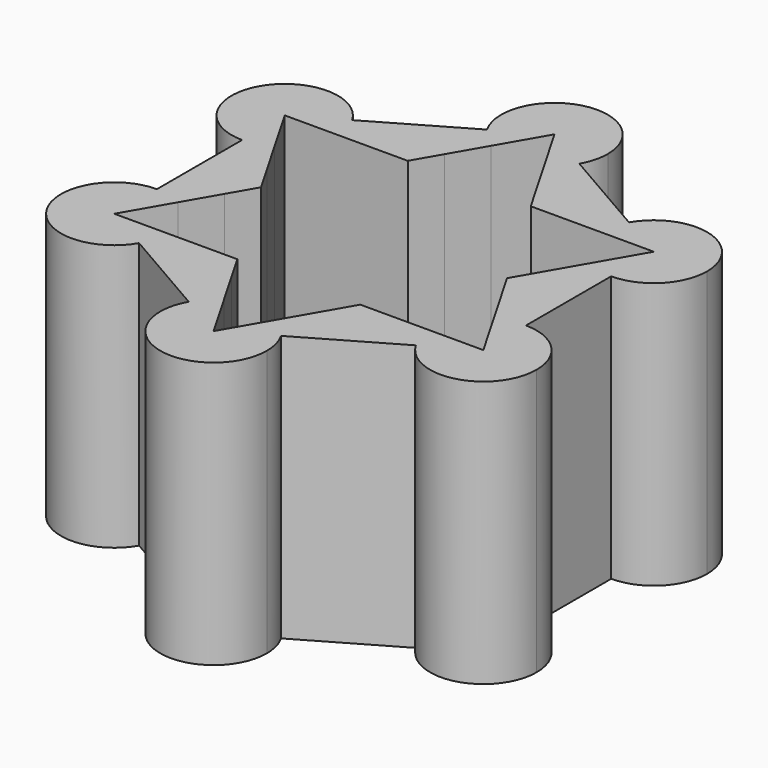
from build123d import *

# Parameters (mm, degrees)
F1_DEPTH = 25


with BuildPart() as f1:
    # F0 (on Top) → F1 (new body)
    with BuildSketch(Plane.XY):
        with BuildLine():
            Line((12.3205080757, 10), (17.3205080757, 10))
            Line((17.3205080757, 10), (12.9903810568, 12.5))
            ThreePointArc((12.9903810568, 12.5), (12.4908789442, 11.2940952255), (12.3205080757, 10))
        make_face()
        with BuildLine():
            Line((12.9903810568, 12.5), (17.3205080757, 10))
            Line((17.3205080757, 10), (17.3205080757, 5))
            ThreePointArc((17.3205080757, 5), (20.8560419816, 6.4644660941), (22.3205080757, 10))
            ThreePointArc((22.3205080757, 10), (18.6146033012, 14.8296291314), (12.9903810568, 12.5))
        make_face()
        with BuildLine():
            Line((17.3205080757, 5), (17.3205080757, 10))
            Line((17.3205080757, 10), (14.8205080757, 5.6698729811))
            ThreePointArc((14.8205080757, 5.6698729811), (16.0264128502, 5.1703708686), (17.3205080757, 5))
        make_face()
        with BuildLine():
            Line((14.8205080757, -5.6698729811), (17.3205080757, -10))
            Line((17.3205080757, -10), (17.3205080757, -5))
            ThreePointArc((17.3205080757, -5), (16.0264128502, -5.1703708686), (14.8205080757, -5.6698729811))
        make_face()
        with BuildLine():
            Line((17.3205080757, -5), (17.3205080757, -10))
            Line((17.3205080757, -10), (12.9903810568, -12.5))
            ThreePointArc((12.9903810568, -12.5), (18.6146033012, -14.8296291314), (22.3205080757, -10))
            ThreePointArc((22.3205080757, -10), (20.8560419816, -6.4644660941), (17.3205080757, -5))
        make_face()
        with BuildLine():
            Line((12.9903810568, -12.5), (17.3205080757, -10))
            Line((17.3205080757, -10), (12.3205080757, -10))
            ThreePointArc((12.3205080757, -10), (12.4908789442, -11.2940952255), (12.9903810568, -12.5))
        make_face()
        with BuildLine():
            Line((-2.5, 15.6698729811), (0, 20))
            Line((0, 20), (-4.3301270189, 17.5))
            ThreePointArc((-4.3301270189, 17.5), (-3.5355339059, 16.4644660941), (-2.5, 15.6698729811))
        make_face()
        with BuildLine():
            Line((-4.3301270189, 17.5), (0, 20))
            Line((0, 20), (4.3301270189, 17.5))
            ThreePointArc((4.3301270189, 17.5), (4.8296291314, 18.7059047745), (5, 20))
            ThreePointArc((5, 20), (-1.2940952255, 24.8296291314), (-4.3301270189, 17.5))
        make_face()
        with BuildLine():
            Line((4.3301270189, 17.5), (0, 20))
            Line((0, 20), (2.5, 15.6698729811))
            ThreePointArc((2.5, 15.6698729811), (3.5355339059, 16.4644660941), (4.3301270189, 17.5))
        make_face()
        with BuildLine():
            Line((11.5470053838, 0), (12.9903810958, -2.5000000676))
            Line((12.9903810958, -2.5000000676), (14.8205080757, -5.6698729811))
            ThreePointArc((14.8205080757, -5.6698729811), (16.0264128502, -5.1703708686), (17.3205080757, -5))
            Line((17.3205080757, -5), (17.3205080757, 5))
            ThreePointArc((17.3205080757, 5), (16.0264128502, 5.1703708686), (14.8205080757, 5.6698729811))
            Line((14.8205080757, 5.6698729811), (12.9903809359, 2.4999997907))
            Line((12.9903809359, 2.4999997907), (11.5470053838, 0))
        make_face()
        with BuildLine():
            Line((5.7735026919, 10), (8.6602540378, 10))
            Line((8.6602540378, 10), (12.3205080757, 10))
            ThreePointArc((12.3205080757, 10), (12.4908789442, 11.2940952255), (12.9903810568, 12.5))
            Line((12.9903810568, 12.5), (4.3301270189, 17.5))
            ThreePointArc((4.3301270189, 17.5), (3.5355339059, 16.4644660941), (2.5, 15.6698729811))
            Line((2.5, 15.6698729811), (4.3301270274, 12.4999999853))
            Line((4.3301270274, 12.4999999853), (5.7735026919, 10))
        make_face()
        with BuildLine():
            Line((2.5, -15.6698729811), (0, -20))
            Line((0, -20), (4.3301270189, -17.5))
            ThreePointArc((4.3301270189, -17.5), (3.5355339059, -16.4644660941), (2.5, -15.6698729811))
        make_face()
        with BuildLine():
            Line((4.3301270189, -17.5), (0, -20))
            Line((0, -20), (-4.3301270189, -17.5))
            ThreePointArc((-4.3301270189, -17.5), (-1.2940952255, -24.8296291314), (5, -20))
            ThreePointArc((5, -20), (4.8296291314, -18.7059047745), (4.3301270189, -17.5))
        make_face()
        with BuildLine():
            Line((-4.3301270189, -17.5), (0, -20))
            Line((0, -20), (-2.5, -15.6698729811))
            ThreePointArc((-2.5, -15.6698729811), (-3.5355339059, -16.4644660941), (-4.3301270189, -17.5))
        make_face()
        with BuildLine():
            Line((12.3205080757, -10), (8.6602540378, -10))
            Line((8.6602540378, -10), (5.7735026919, -10))
            Line((5.7735026919, -10), (4.3301270579, -12.4999999324))
            Line((4.3301270579, -12.4999999324), (2.5, -15.6698729811))
            ThreePointArc((2.5, -15.6698729811), (3.5355339059, -16.4644660941), (4.3301270189, -17.5))
            Line((4.3301270189, -17.5), (12.9903810568, -12.5))
            ThreePointArc((12.9903810568, -12.5), (12.4908789442, -11.2940952255), (12.3205080757, -10))
        make_face()
        with BuildLine():
            Line((-17.3205080757, 5), (-17.3205080757, 10))
            Line((-17.3205080757, 10), (-12.9903810568, 12.5))
            ThreePointArc((-12.9903810568, 12.5), (-21.6506350946, 12.5), (-17.3205080757, 5))
        make_face()
        with BuildLine():
            Line((-14.8205080757, 5.6698729811), (-17.3205080757, 10))
            Line((-17.3205080757, 10), (-17.3205080757, 5))
            ThreePointArc((-17.3205080757, 5), (-16.0264128502, 5.1703708686), (-14.8205080757, 5.6698729811))
        make_face()
        with BuildLine():
            Line((-12.9903810568, 12.5), (-17.3205080757, 10))
            Line((-17.3205080757, 10), (-12.3205080757, 10))
            ThreePointArc((-12.3205080757, 10), (-12.4908789442, 11.2940952255), (-12.9903810568, 12.5))
        make_face()
        with BuildLine():
            Line((-5.7735026919, 10), (-4.3301269897, 12.5000000507))
            Line((-4.3301269897, 12.5000000507), (-2.5, 15.6698729811))
            ThreePointArc((-2.5, 15.6698729811), (-3.5355339059, 16.4644660941), (-4.3301270189, 17.5))
            Line((-4.3301270189, 17.5), (-12.9903810568, 12.5))
            ThreePointArc((-12.9903810568, 12.5), (-12.4908789442, 11.2940952255), (-12.3205080757, 10))
            Line((-12.3205080757, 10), (-8.6602540378, 10))
            Line((-8.6602540378, 10), (-5.7735026919, 10))
        make_face()
        with BuildLine():
            Line((-12.3205080757, -10), (-17.3205080757, -10))
            Line((-17.3205080757, -10), (-12.9903810568, -12.5))
            ThreePointArc((-12.9903810568, -12.5), (-12.4908789442, -11.2940952255), (-12.3205080757, -10))
        make_face()
        with BuildLine():
            Line((-12.9903810568, -12.5), (-17.3205080757, -10))
            Line((-17.3205080757, -10), (-17.3205080757, -5))
            ThreePointArc((-17.3205080757, -5), (-21.6506350946, -12.5), (-12.9903810568, -12.5))
        make_face()
        with BuildLine():
            Line((-17.3205080757, -5), (-17.3205080757, -10))
            Line((-17.3205080757, -10), (-14.8205080757, -5.6698729811))
            ThreePointArc((-14.8205080757, -5.6698729811), (-16.0264128502, -5.1703708686), (-17.3205080757, -5))
        make_face()
        with BuildLine():
            Line((-5.7735026919, -10), (-8.6602540378, -10))
            Line((-8.6602540378, -10), (-12.3205080757, -10))
            ThreePointArc((-12.3205080757, -10), (-12.4908789442, -11.2940952255), (-12.9903810568, -12.5))
            Line((-12.9903810568, -12.5), (-4.3301270189, -17.5))
            ThreePointArc((-4.3301270189, -17.5), (-3.5355339059, -16.4644660941), (-2.5, -15.6698729811))
            Line((-2.5, -15.6698729811), (-4.3301270579, -12.4999999324))
            Line((-4.3301270579, -12.4999999324), (-5.7735026919, -10))
        make_face()
        with BuildLine():
            Line((-11.5470053838, 0), (-12.9903810464, 2.4999999821))
            Line((-12.9903810464, 2.4999999821), (-14.8205080757, 5.6698729811))
            ThreePointArc((-14.8205080757, 5.6698729811), (-16.0264128502, 5.1703708686), (-17.3205080757, 5))
            Line((-17.3205080757, 5), (-17.3205080757, -5))
            ThreePointArc((-17.3205080757, -5), (-16.0264128502, -5.1703708686), (-14.8205080757, -5.6698729811))
            Line((-14.8205080757, -5.6698729811), (-12.990380962, -2.4999998358))
            Line((-12.990380962, -2.4999998358), (-11.5470053838, 0))
        make_face()
    extrude(amount=F1_DEPTH)


solid = f1.part
